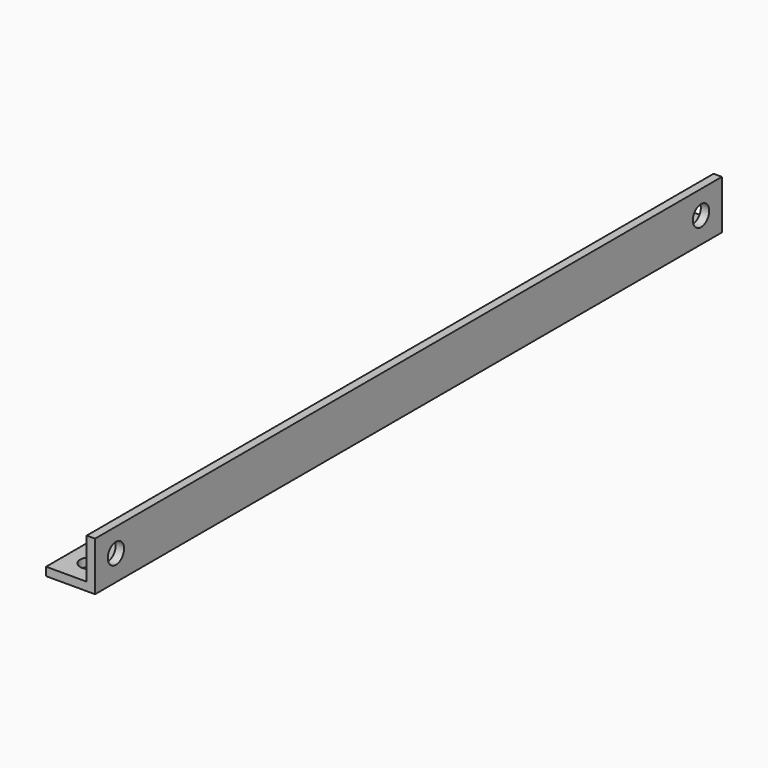
from build123d import *

# Parameters (mm, degrees)
F1_DEPTH = 152.4
F3_D     = 7.9375
F3_DEPTH = 17.4625
F3_TIP   = 2.3846655818
F5_D     = 7.9375
F5_DEPTH = 17.4752
F5_TIP   = 2.3846655818


with BuildPart() as f1:
    # F0 (on Front) → F1 (new body, symmetric)
    with BuildSketch(Plane.XZ):
        Polygon((-19.05, 0), (0, 0), (0, 19.05), (-3.2512, 19.05), (-3.2512, 3.2512), (-19.05, 3.2512), align=None)
    extrude(amount=F1_DEPTH, both=True)

    # F3
    with Locations(Plane.XY.offset(3.2512)):
        with Locations((-9.906, -142.24), (-9.906, 142.24)):
            Hole(F3_D / 2, depth=F3_DEPTH)
            with Locations((0, 0, -(F3_DEPTH + F3_TIP / 2))):  # 118° drill point
                Cone(0, F3_D / 2, F3_TIP, mode=Mode.SUBTRACT)

    # F5
    with Locations(Plane(origin=(-3.2512, 0, 0), x_dir=(0, -1, 0), z_dir=(-1, 0, 0))):
        with Locations((-142.24, 9.906), (142.24, 9.906)):
            Hole(F5_D / 2, depth=F5_DEPTH)
            with Locations((0, 0, -(F5_DEPTH + F5_TIP / 2))):  # 118° drill point
                Cone(0, F5_D / 2, F5_TIP, mode=Mode.SUBTRACT)


solid = f1.part
